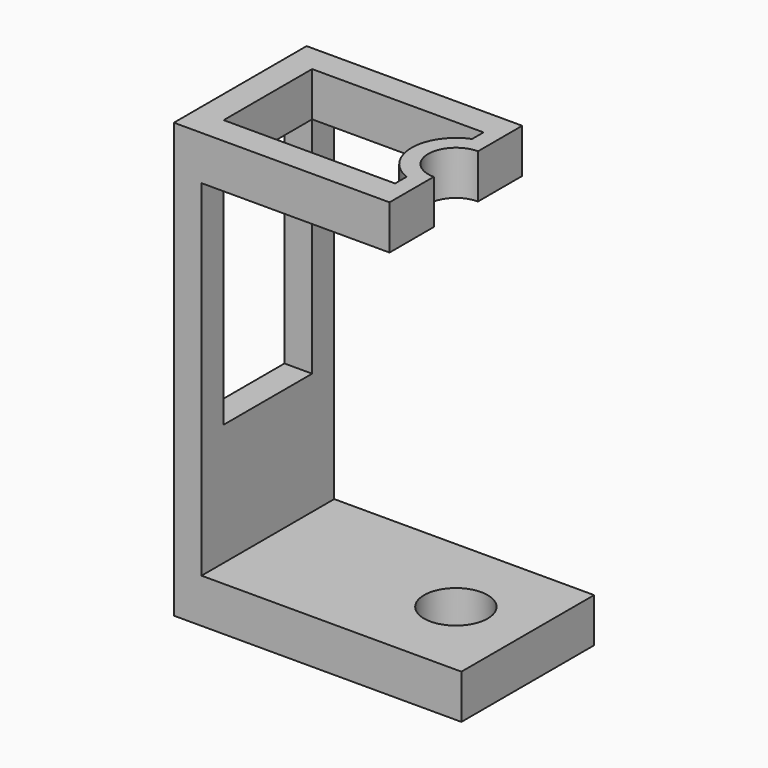
from build123d import *

# Parameters (mm, degrees)
SKETCH_W        = 30
SKETCH_H        = 78.5
SKETCH_W_2      = 20
SKETCH_H_2      = 40.5
PAD_DEPTH       = 5
SKETCH001_W     = 30
SKETCH001_H     = 8
PAD004_DEPTH    = 47
SKETCH002_W     = 5
SKETCH002_H     = 8
PAD005_DEPTH    = 31
PAD006_DEPTH    = 8
SKETCH006_R     = 1.5
POCKET001_DEPTH = 6.501
SKETCH007_R     = 5.75
POCKET002_DEPTH = 30.001


with BuildPart() as part:
    # Sketch → Pad (new body)
    with BuildSketch(Plane.YZ):
        with Locations((10, 9.25)):
            Rectangle(SKETCH_W, SKETCH_H)
        with Locations((10, 20.25)):
            Rectangle(SKETCH_W_2, SKETCH_H_2, mode=Mode.SUBTRACT)
    extrude(amount=-PAD_DEPTH)

    # Sketch001 → Pad004 (join)
    with BuildSketch(Plane.YZ):
        with Locations((10, -26)):
            Rectangle(SKETCH001_W, SKETCH001_H)
    extrude(amount=PAD004_DEPTH)

    # Sketch002 → Pad005 (join)
    with BuildSketch(Plane.YZ):
        with Locations((-2.5, 44.5)):
            Rectangle(SKETCH002_W, SKETCH002_H)
        with Locations((22.5, 44.5)):
            Rectangle(SKETCH002_W, SKETCH002_H)
    extrude(amount=PAD005_DEPTH)

    # Sketch003 → Pad006 (join)
    with BuildSketch(Plane.XY.offset(40.5)):
        with BuildLine():
            ThreePointArc((34, 15), (29, 10), (34, 5))
            Line((34, 5), (34, -5))
            Line((34, -5), (31, -5))
            Line((31, -5), (31, 2.583802))
            ThreePointArc((31, 17.416198), (26, 10), (31, 2.583802))
            Line((31, 25), (31, 17.416198))
            Line((34, 25), (31, 25))
            Line((34, 15), (34, 25))
        make_face()
    extrude(amount=PAD006_DEPTH)

    # Sketch006 → Pocket001 (cut, through all)
    with BuildSketch(Plane.YZ.offset(40.5)):
        with Locations((-2.5, 44.5)):
            Circle(SKETCH006_R)
        with Locations((22.5, 44.5)):
            Circle(SKETCH006_R)
    extrude(amount=POCKET001_DEPTH, mode=Mode.SUBTRACT)

    # Sketch007 → Pocket002 (cut, through all)
    with BuildSketch(Plane.XY):
        with Locations((34, 10)):
            Circle(SKETCH007_R)
    extrude(amount=-POCKET002_DEPTH, mode=Mode.SUBTRACT)


solid = part.part
